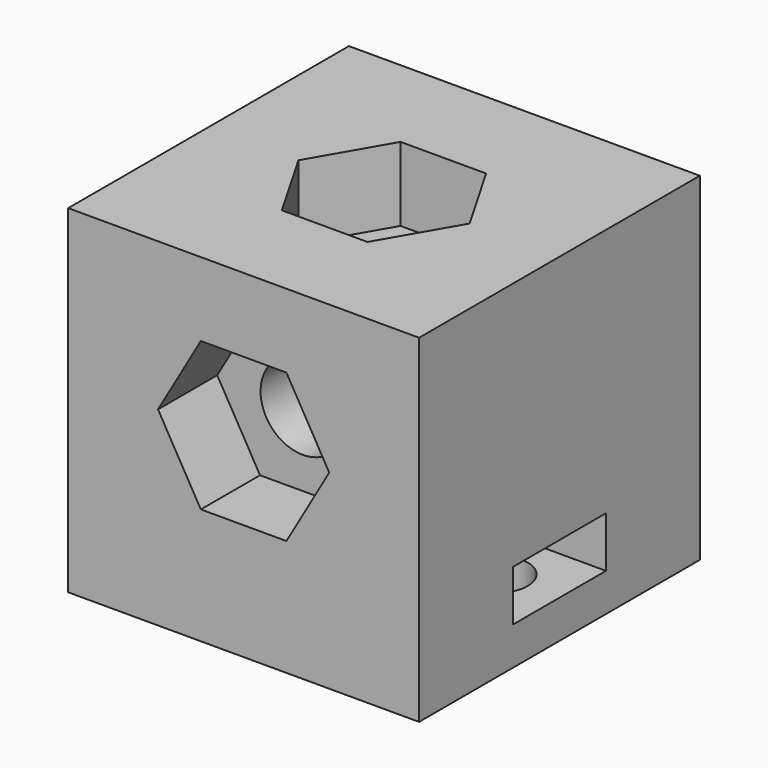
from build123d import *

# Parameters (mm, degrees)
CYLINDER002_R           = 1.5
CYLINDER002_DEPTH       = 6
SKETCH003_W             = 5.5
SKETCH003_H             = 6
PAD003_DEPTH            = 1.2
FUSION_PLACEMENT_ANGLE  = 270
PAD002_DEPTH            = 3.5
BODY002_PLACEMENT_ANGLE = 90
PAD001_DEPTH            = 3.5
CYLINDER_R              = 2
CYLINDER_DEPTH          = 16
CYLINDER001_R           = 2
CYLINDER001_DEPTH       = 5.4
BOX_W                   = 16.6
BOX_H                   = 16.6
BOX_DEPTH               = 16


with BuildPart() as cylinder002:
    # Cylinder002 → Cylinder002 (new body)
    with BuildSketch(Plane(origin=(0, 3, -3), x_dir=(1, 0, 0), z_dir=(0, 0, 1))):
        Circle(CYLINDER002_R)
    extrude(amount=CYLINDER002_DEPTH)


with BuildPart() as fusion:
    # Sketch003 → Pad003 (new body, symmetric)
    with BuildSketch(Plane.XY):
        with Locations((0, 3)):
            Rectangle(SKETCH003_W, SKETCH003_H)
    extrude(amount=PAD003_DEPTH, both=True)

    # Fusion: union Cylinder002
    add(cylinder002.part)


with BuildPart() as fusion_1:
    # Fusion placement: moved
    add(fusion.part.moved(Location((2.3, 0, 3))).rotate(Axis((2.3, 0, 3), (0, 0, 1)), FUSION_PLACEMENT_ANGLE))


with BuildPart() as nut_body002:
    # Sketch002 → Pad002 (new body)
    with BuildSketch(Plane.XY):
        Polygon((-4.05, 0), (-2.025, -3.507403), (2.025, -3.507403), (4.05, 0), (2.025, 3.507403), (-2.025, 3.507403), align=None)
    extrude(amount=PAD002_DEPTH)


with BuildPart() as nut_body002_1:
    # Body002 placement: moved
    add(nut_body002.part.moved(Location((0, -4.8, 9))).rotate(Axis((0, -4.8, 9), (1, 0, 0)), BODY002_PLACEMENT_ANGLE))


with BuildPart() as nut_body:
    # Sketch001 → Pad001 (new body)
    with BuildSketch(Plane.XY):
        Polygon((-4.05, 0), (-2.025, -3.507403), (2.025, -3.507403), (4.05, 0), (2.025, 3.507403), (-2.025, 3.507403), align=None)
    extrude(amount=PAD001_DEPTH)


with BuildPart() as nut_body_1:
    # Body001 placement: moved
    add(nut_body.part.moved(Location((0, 0, 12.5))))


with BuildPart() as cylinder:
    # Cylinder → Cylinder (new body)
    with BuildSketch(Plane.XY):
        Circle(CYLINDER_R)
    extrude(amount=CYLINDER_DEPTH)


with BuildPart() as fusion001:
    # Cylinder001 → Cylinder001 (new body)
    with BuildSketch(Plane(origin=(0, -8.3, 9), x_dir=(1, 0, 0), z_dir=(0, 1, 0))):
        Circle(CYLINDER001_R)
    extrude(amount=CYLINDER001_DEPTH)

    # Fusion001: union Fusion, nut_body002, nut_body, Cylinder
    add(fusion_1.part)
    add(nut_body002_1.part)
    add(nut_body_1.part)
    add(cylinder.part)


with BuildPart() as cut:
    # Box → Box (new body)
    with BuildSketch(Plane(origin=(-8.3, -8.3, 0), x_dir=(1, 0, 0), z_dir=(0, 0, 1))):
        with Locations((8.3, 8.3)):
            Rectangle(BOX_W, BOX_H)
    extrude(amount=BOX_DEPTH)

    # Cut: cut Fusion001
    add(fusion001.part, mode=Mode.SUBTRACT)


solid = cut.part
